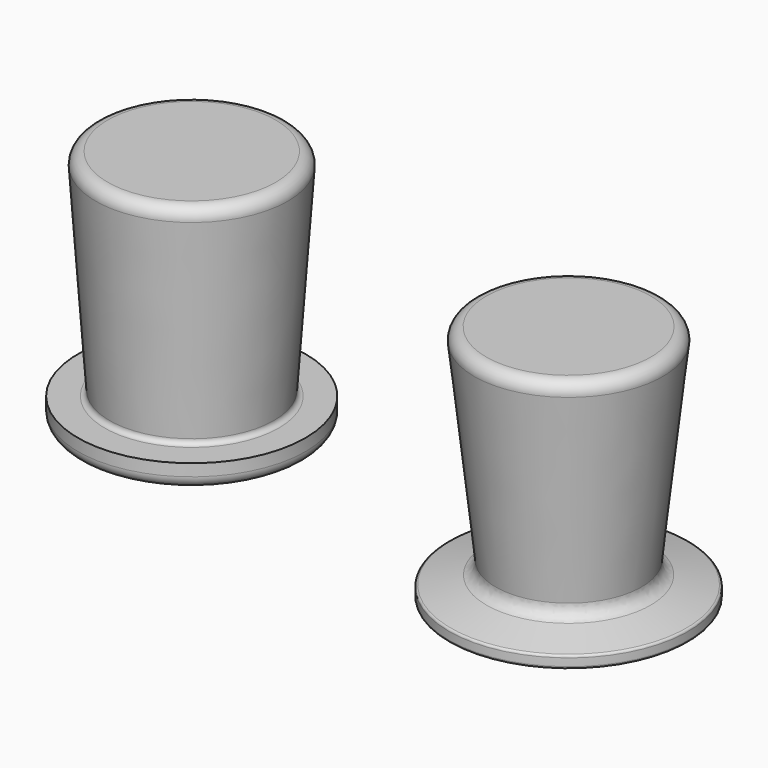
from build123d import *

# Parameters (mm, degrees)
F0_R     = 47.5
F0_R_2   = 33.5
F1_DEPTH = 10
F2_DEPTH = 100
F2_TAPER = -4
F3_R     = 5
F4_R     = 2
F5_R     = 5
F8_R     = 5
F9_R     = 1


with BuildPart() as f1:
    # F0 (on Top) → F1 (new body)
    with BuildSketch(Plane.XY):
        with Locations((-0.5802828819, -0.535838306)):
            Circle(F0_R)
        with Locations((-0.5802828819, -0.535838306)):
            Circle(F0_R_2, mode=Mode.SUBTRACT)
        with Locations((-0.5802828819, -0.535838306)):
            Circle(F0_R_2)
    extrude(amount=F1_DEPTH)

    # F0 (on Top) → F2 (join)
    with BuildSketch(Plane.XY):
        with Locations((-0.5802828819, -0.535838306)):
            Circle(F0_R_2)
    extrude(amount=F2_DEPTH, taper=F2_TAPER)

    # F3
    f3_edges = [f1.edges().sort_by_distance(p)[0] for p in [
        (-48.080283, -0.535838, 0),
    ]]
    fillet(f3_edges, radius=F3_R)

    # F4
    f4_edges = [f1.edges().sort_by_distance(p)[0] for p in [
        (-34.779551, -0.535838, 10),
    ]]
    fillet(f4_edges, radius=F4_R)

    # F5
    f5_edges = [f1.edges().sort_by_distance(p)[0] for p in [
        (-41.072964, -0.535838, 100),
    ]]
    fillet(f5_edges, radius=F5_R)


with BuildPart() as f7:
    # F6 (on Front) → F7 (revolve)
    with BuildSketch(Plane.XZ):
        Polygon((156.3661242497, -13.6623751307), (156.3661242497, 86.3376248693), (116.3661242497, 86.3376248693), (126.3661242497, -3.9000269668), (106.3661242497, -8.6623751307), (106.3661242497, -13.6623751307), align=None)
    revolve(axis=Axis((156.3661242497, 0, 36.3376248693), (0, 0, -1)))

    # F8
    f8_edges = [f7.edges().sort_by_distance(p)[0] for p in [
        (196.366124, 0, 86.337625),
        (186.366124, 0, -3.900027),
    ]]
    fillet(f8_edges, radius=F8_R)

    # F9
    f9_edges = [f7.edges().sort_by_distance(p)[0] for p in [
        (206.366124, 0, -8.662375),
        (206.366124, 0, -13.662375),
        (106.366124, 0, -11.162375),
    ]]
    fillet(f9_edges, radius=F9_R)


solid = Compound([f1.part, f7.part])
